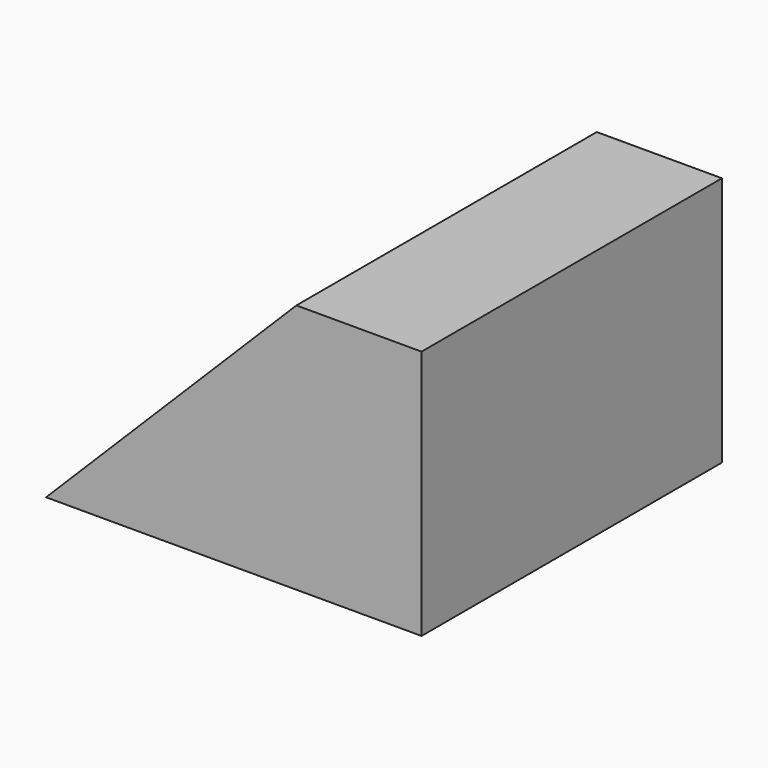
from build123d import *

# Parameters (mm, degrees)
F1_DEPTH      = 30
F1_DEPTH_BACK = 30


with BuildPart() as f1:
    # F0 (on Front) → F1 (new body, two sides)
    with BuildSketch(Plane.XZ) as f1_sk:
        Polygon((40, 40), (0, 0), (60, 0), (60, 40), align=None)
    extrude(amount=F1_DEPTH)
    extrude(f1_sk.sketch, amount=-F1_DEPTH_BACK)


solid = f1.part
